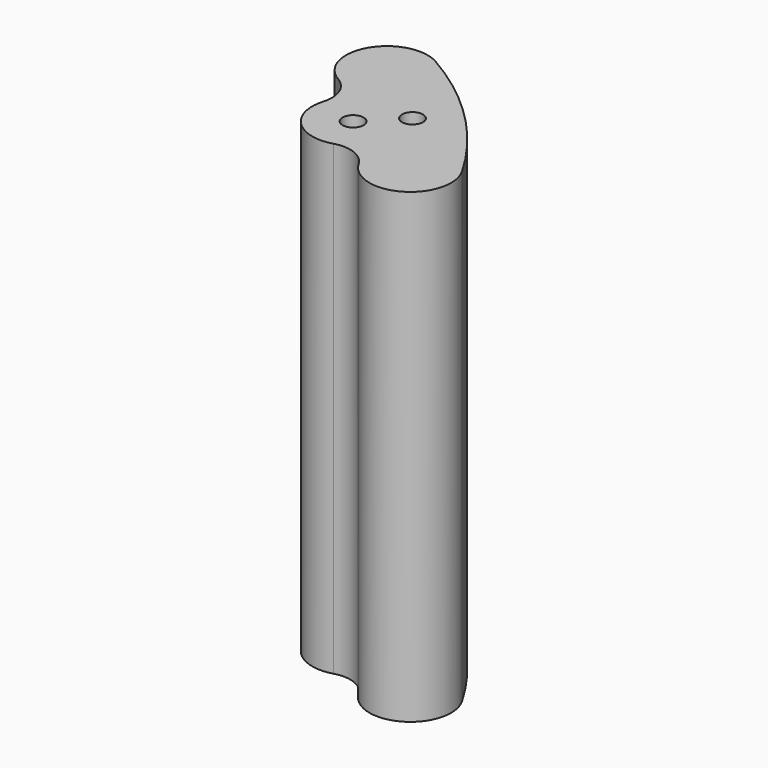
from build123d import *

# Parameters (mm, degrees)
SKETCH032_R             = 1.8
PAD023_DEPTH            = 5
PAD024_DEPTH            = 80
SKETCH031_R             = 5.2
PAD022_DEPTH            = 80
SKETCH029_R             = 1.5
POCKET006_DEPTH         = 15
BODY004_PLACEMENT_ANGLE = 45


with BuildPart() as part:
    # Sketch032 → Pad023 (new body)
    with BuildSketch(Plane.XY):
        with BuildLine():
            ThreePointArc((59.887401, -16.046781), (62, 0), (59.887401, 16.046781))
            ThreePointArc((59.887401, 16.046781), (51.314187, 20.996528), (46.36444, 12.423314))
            ThreePointArc((43.66723, 6.1557), (46.103592, 8.821401), (46.36444, 12.423314))
            ThreePointArc((43.66723, 6.1557), (40, 0), (43.66723, -6.1557))
            ThreePointArc((46.36444, -12.423314), (46.103592, -8.821401), (43.66723, -6.1557))
            ThreePointArc((46.36444, -12.423314), (51.314187, -20.996528), (59.887401, -16.046781))
        make_face()
        with Locations((47, 0)):
            Circle(SKETCH032_R, mode=Mode.SUBTRACT)
        with Locations((55, 0)):
            Circle(SKETCH032_R, mode=Mode.SUBTRACT)
    extrude(amount=-PAD023_DEPTH)

    # Sketch033 → Pad024 (join)
    with BuildSketch(Plane.XY):
        with BuildLine():
            ThreePointArc((59.887401, -16.046781), (62, 0), (59.887401, 16.046781))
            ThreePointArc((59.887401, 16.046781), (51.314187, 20.996528), (46.36444, 12.423314))
            ThreePointArc((43.66723, 6.1557), (46.103592, 8.821401), (46.36444, 12.423314))
            ThreePointArc((43.66723, 6.1557), (40, 0), (43.66723, -6.1557))
            ThreePointArc((46.36444, -12.423314), (46.103592, -8.821401), (43.66723, -6.1557))
            ThreePointArc((46.36444, -12.423314), (51.314187, -20.996528), (59.887401, -16.046781))
        make_face()
        with BuildLine():
            ThreePointArc((57.95555, 15.529143), (51.831825, 19.064677), (48.296291, 12.940952))
            ThreePointArc((44.61945, 4.396929), (47.940703, 8.030817), (48.296291, 12.940952))
            ThreePointArc((44.61945, 4.396929), (42, 0), (44.61945, -4.396929))
            ThreePointArc((48.296291, -12.940952), (47.940703, -8.030817), (44.61945, -4.396929))
            ThreePointArc((48.296291, -12.940952), (51.831825, -19.064677), (57.95555, -15.529143))
            ThreePointArc((57.95555, -15.529143), (60, 0), (57.95555, 15.529143))
        make_face(mode=Mode.SUBTRACT)
    extrude(amount=-PAD024_DEPTH)

    # Sketch031 → Pad022 (join)
    with BuildSketch(Plane.XY):
        with Locations((53.12592, 14.235047)):
            Circle(SKETCH031_R)
        with Locations((53.12592, -14.235047)):
            Circle(SKETCH031_R)
    extrude(amount=-PAD022_DEPTH)

    # Sketch029 → Pocket006 (cut)
    with BuildSketch(Plane.XY.offset(-80)):
        with Locations((53.12592, 14.235047)):
            Circle(SKETCH029_R)
        with Locations((53.12592, -14.235047)):
            Circle(SKETCH029_R)
    extrude(amount=POCKET006_DEPTH, mode=Mode.SUBTRACT)


with BuildPart() as part_1:
    # Body004 placement: moved
    add(part.part.moved(Location((0, 0, -55))).rotate(Axis((0, 0, -55), (0, 0, 1)), BODY004_PLACEMENT_ANGLE))


solid = part_1.part
